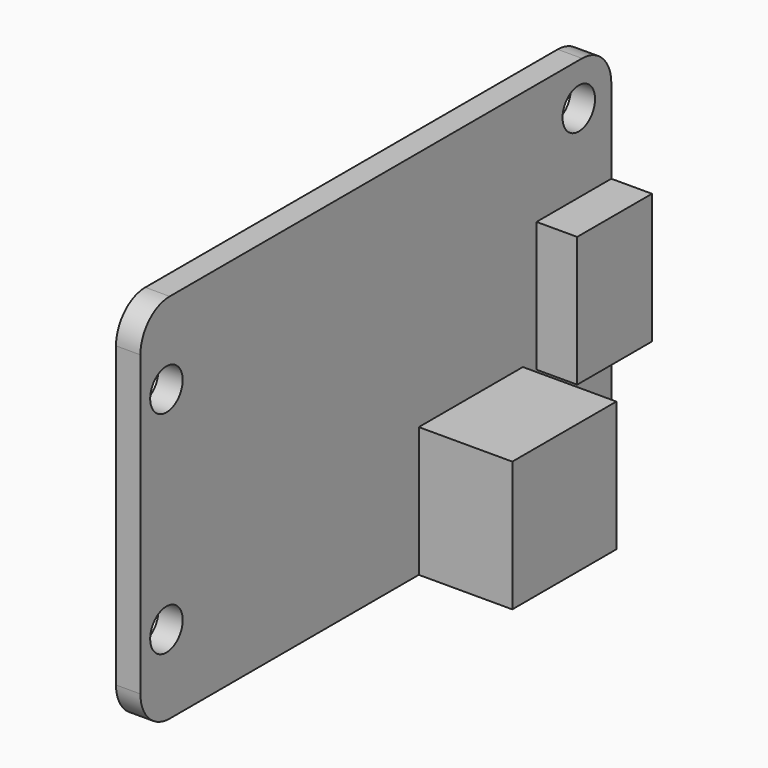
from build123d import *

# Parameters (mm, degrees)
F0_W     = 36.2
F0_H     = 22.86
F1_DEPTH = 0.75
F2_W     = 8
F2_H     = 8
F3_DEPTH = 5.75
F2_W_2   = 5.75
F4_DEPTH = 2.5
F5_R     = 2.25
F6_R     = 1.25
F7_DEPTH = 1.5


with BuildPart() as f1:
    # F0 (on Right) → F1 (new body, symmetric)
    with BuildSketch(Plane.YZ):
        Rectangle(F0_W, F0_H)
    extrude(amount=F1_DEPTH, both=True)

    # F2 (on face) → F3 (join)
    with BuildSketch(Plane.YZ.offset(0.75)):
        with Locations((7.3, -7.43)):
            Rectangle(F2_W, F2_H)
    extrude(amount=F3_DEPTH)

    # F2 (on face) → F4 (join)
    with BuildSketch(Plane.YZ.offset(0.75)):
        with Locations((15.225, 0)):
            Rectangle(F2_W_2, F2_H)
    extrude(amount=F4_DEPTH)

    # F5
    f5_edges = [f1.edges().sort_by_distance(p)[0] for p in [
        (0, -18.1, 11.43),
        (0, 18.1, 11.43),
        (0, 18.1, -11.43),
        (0, -18.1, -11.43),
    ]]
    fillet(f5_edges, radius=F5_R)

    # F6 (on face) → F7 (cut, through all)
    with BuildSketch(Plane.YZ.offset(0.75)):
        with Locations((15.6, 8.825)):
            Circle(F6_R)
        with Locations((15.6, -8.825)):
            Circle(F6_R)
        with Locations((-16.1, 6.5)):
            Circle(F6_R)
        with Locations((-16.1, -6.5)):
            Circle(F6_R)
    extrude(amount=-F7_DEPTH, mode=Mode.SUBTRACT)


solid = f1.part
